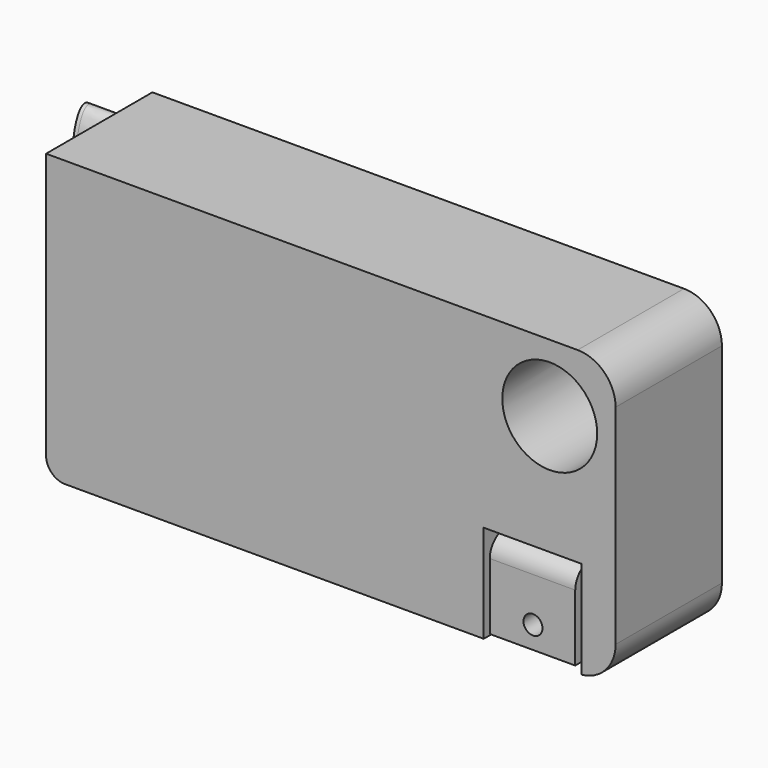
from build123d import *

# Parameters (mm, degrees)
F0_W      = 76.2
F0_H      = 38.1
F1_DEPTH  = 17.78
F2_R      = 6.35
F3_DEPTH  = 15.24
F5_DEPTH  = 5.332479
F6_DEPTH  = 5.837152
F7_R      = 1.27
F8_DEPTH  = 67.31
F9_R      = 5.08
F10_R     = 5.08
F11_W     = 13.054326
F11_H     = 13.088878
F12_DEPTH = 7.62
F13_W     = 11.43
F13_H     = 11.43
F14_DEPTH = 7.62
F15_R     = 2.54
F16_R     = 1.27
F17_DEPTH = 12.7
F18_R     = 2.54


with BuildPart() as f1:
    # F0 (on Front) → F1 (new body)
    with BuildSketch(Plane.XZ):
        Rectangle(F0_W, F0_H)
    extrude(amount=F1_DEPTH)

    # F2 (on face) → F3 (cut)
    with BuildSketch(Plane.XZ.offset(17.78)):
        with Locations((29.285945, 10.045934)):
            Circle(F2_R)
    extrude(amount=-F3_DEPTH, mode=Mode.SUBTRACT)

    # F4 (on face) → F5 (join)
    with BuildSketch(Plane(origin=(-38.1, 0, 0), x_dir=(0, -1, 0), z_dir=(-1, 0, 0))):
        with BuildLine():
            add(Edge.make_bspline(
                [(3.993284, 17.51616), (0.337111, 17.51616), (2.165198, 8.925081), (3.993284, 0.334002), (5.82137, 8.925081), (7.649457, 17.51616), (3.993284, 17.51616)],
                knots=[0, 0, 0, 2.094395, 2.094395, 4.18879, 4.18879, 6.283185, 6.283185, 6.283185], degree=2, weights=[1, 0.5, 1, 0.5, 1, 0.5, 1]))
        make_face()
    extrude(amount=F5_DEPTH)

    # F4 (on face) → F6 (join)
    with BuildSketch(Plane(origin=(-38.1, 0, 0), x_dir=(0, -1, 0), z_dir=(-1, 0, 0))):
        with BuildLine():
            add(Edge.make_bspline(
                [(3.993284, 17.51616), (0.337111, 17.51616), (2.165198, 8.925081), (3.993284, 0.334002), (5.82137, 8.925081), (7.649457, 17.51616), (3.993284, 17.51616)],
                knots=[0, 0, 0, 2.094395, 2.094395, 4.18879, 4.18879, 6.283185, 6.283185, 6.283185], degree=2, weights=[1, 0.5, 1, 0.5, 1, 0.5, 1]))
        make_face()
    extrude(amount=F6_DEPTH)

    # F7 (on face) → F8 (cut)
    with BuildSketch(Plane(origin=(-43.937152, 0, 0), x_dir=(0, -1, 0), z_dir=(-1, 0, 0))):
        with Locations((3.993284, 11.788774)):
            Circle(F7_R)
    extrude(amount=-F8_DEPTH, mode=Mode.SUBTRACT)

    # F9
    f9_edges = [f1.edges().sort_by_distance(p)[0] for p in [
        (38.1, -8.89, 19.05),
    ]]
    fillet(f9_edges, radius=F9_R)

    # F10
    f10_edges = [f1.edges().sort_by_distance(p)[0] for p in [
        (38.1, -8.89, -19.05),
    ]]
    fillet(f10_edges, radius=F10_R)

    # F11 (on face) → F12 (cut)
    with BuildSketch(Plane.XZ.offset(17.78)):
        with Locations((26.983425, -12.505561)):
            Rectangle(F11_W, F11_H)
    extrude(amount=-F12_DEPTH, mode=Mode.SUBTRACT)

    # F13 (on face) → F14 (join)
    with BuildSketch(Plane.XZ.offset(10.16)):
        with Locations((26.983425, -12.505561)):
            Rectangle(F13_W, F13_H)
    extrude(amount=F14_DEPTH)

    # F15
    f15_edges = [f1.edges().sort_by_distance(p)[0] for p in [
        (26.983425, -17.78, -6.790561),
    ]]
    fillet(f15_edges, radius=F15_R)

    # F16 (on face) → F17 (cut)
    with BuildSketch(Plane.XZ.offset(17.78)):
        with Locations((27.043138, -15.251571)):
            Circle(F16_R)
        with Locations((27.043138, -15.251571)):
            Circle(F16_R)
    extrude(amount=-F17_DEPTH, mode=Mode.SUBTRACT)

    # F18
    f18_edges = [f1.edges().sort_by_distance(p)[0] for p in [
        (-38.1, -8.89, -19.05),
    ]]
    fillet(f18_edges, radius=F18_R)


solid = f1.part
